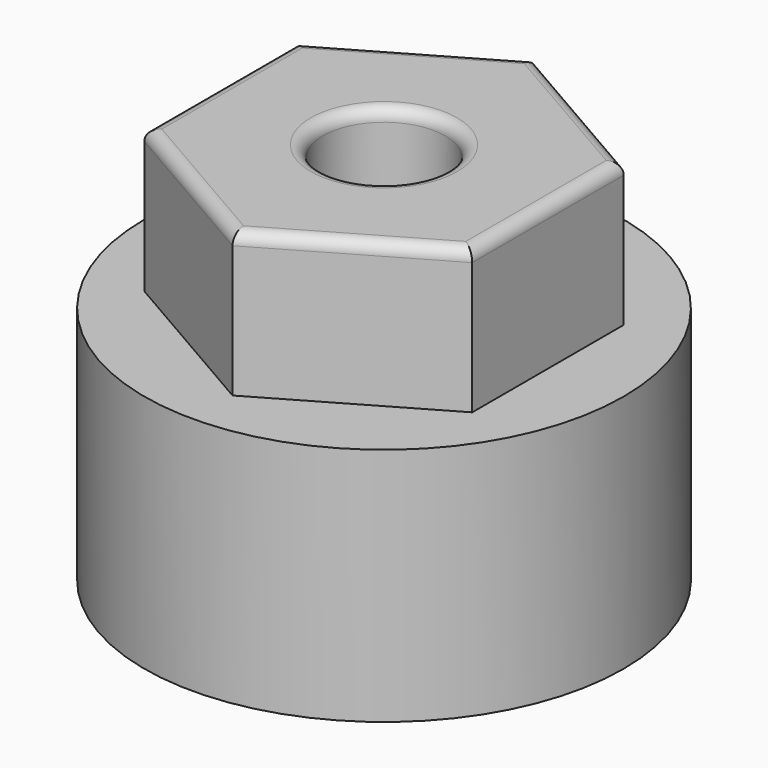
from build123d import *

# Parameters (mm, degrees)
SKETCH_R      = 2.55
PAD_DEPTH     = 6
SKETCH001_R   = 10
SKETCH001_R_2 = 2.466699
PAD001_DEPTH  = 10
FILLET_R      = 0.5


with BuildPart() as part:
    # Sketch → Pad (new body)
    with BuildSketch(Plane.XY):
        Polygon((-6.841601, -3.95), (0, -7.9), (6.841601, -3.95), (6.841601, 3.95), (0, 7.9), (-6.841601, 3.95), align=None)
        Circle(SKETCH_R, mode=Mode.SUBTRACT)
    extrude(amount=PAD_DEPTH)

    # Sketch001 → Pad001 (new body)
    with BuildSketch(Plane(origin=(0, 0, 0), x_dir=(1, 0, 0), z_dir=(0, 0, -1))):
        Circle(SKETCH001_R)
        Circle(SKETCH001_R_2, mode=Mode.SUBTRACT)
    extrude(amount=PAD001_DEPTH)

    # Fillet
    fillet_edges = [part.edges().sort_by_distance(p)[0] for p in [
        (-3.4208, -5.925, 6),
        (3.4208, -5.925, 6),
        (6.841601, 0, 6),
        (3.4208, 5.925, 6),
        (-3.4208, 5.925, 6),
        (-6.841601, 0, 6),
        (-2.55, 0, 6),
    ]]
    fillet(fillet_edges, radius=FILLET_R)


solid = part.part
